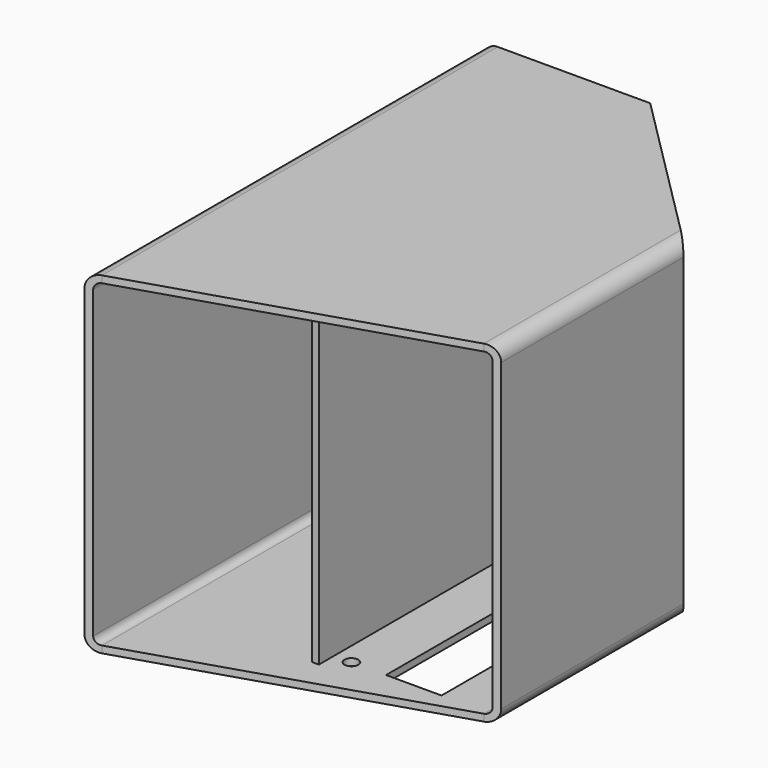
from build123d import *

# Parameters (mm, degrees)
F0_W     = 6.35
F0_H     = 292.1
F1_DEPTH = 457.2
F4_DEPTH = 304.801
F2_W     = 50.8
F2_H     = 190.5
F2_R     = 6.35
F5_DEPTH = 6.35
F6_W     = 31.75
F6_H     = 292.1
F7_DEPTH = 6.35


with BuildPart() as f1:
    # F0 (on Front) → F1 (new body)
    with BuildSketch(Plane.XZ):
        with BuildLine():
            Line((-139.7, -152.4), (139.7, -152.4))
            ThreePointArc((139.7, -152.4), (148.6802561211, -148.6802561211), (152.4, -139.7))
            Line((152.4, -139.7), (152.4, 139.7))
            ThreePointArc((152.4, 139.7), (148.6802561211, 148.6802561211), (139.7, 152.4))
            Line((139.7, 152.4), (-139.7, 152.4))
            ThreePointArc((-139.7, 152.4), (-148.6802561211, 148.6802561211), (-152.4, 139.7))
            Line((-152.4, 139.7), (-152.4, -139.7))
            ThreePointArc((-152.4, -139.7), (-148.6802561211, -148.6802561211), (-139.7, -152.4))
        make_face()
        with BuildLine():
            Line((0, 146.05), (139.7, 146.05))
            ThreePointArc((139.7, 146.05), (144.1901280605, 144.1901280605), (146.05, 139.7))
            Line((146.05, 139.7), (146.05, -139.7))
            ThreePointArc((146.05, -139.7), (144.1901280605, -144.1901280605), (139.7, -146.05))
            Line((139.7, -146.05), (0, -146.05))
            Line((0, -146.05), (-6.35, -146.05))
            Line((-6.35, -146.05), (-139.7, -146.05))
            ThreePointArc((-139.7, -146.05), (-144.1901280605, -144.1901280605), (-146.05, -139.7))
            Line((-146.05, -139.7), (-146.05, 139.7))
            ThreePointArc((-146.05, 139.7), (-144.1901280605, 144.1901280605), (-139.7, 146.05))
            Line((-139.7, 146.05), (-6.35, 146.05))
            Line((-6.35, 146.05), (0, 146.05))
        make_face(mode=Mode.SUBTRACT)
        with Locations((-3.175, 0)):
            Rectangle(F0_W, F0_H)
    extrude(amount=F1_DEPTH)

    # F3 (on face) → F4 (cut, through all)
    with BuildSketch(Plane(origin=(0, 0, -152.4), x_dir=(1, 0, 0), z_dir=(0, 0, -1))):
        Polygon((152.4, 143.4197438789), (152.4, 152.4), (139.7, 139.7), (139.7, 130.7197438789), align=None)
        Polygon((139.7, 130.7197438789), (139.7, 139.7), (0, 0), (8.9802561211, 0), align=None)
        Polygon((139.7, 0), (139.7, 130.7197438789), (8.9802561211, 0), align=None)
        Polygon((152.4, 0), (152.4, 143.4197438789), (139.7, 130.7197438789), (139.7, 0), align=None)
        Polygon((139.7, 365.1012237684), (139.7, 457.2), (-139.7, 457.2), (-139.7, 453.1957053812), align=None)
        Polygon((-139.7, 453.1957053812), (-139.7, 457.2), (-152.4, 457.2), align=None)
        Polygon((152.4, 361.0969291497), (152.4, 457.2), (139.7, 457.2), (139.7, 365.1012237684), align=None)
    extrude(amount=-F4_DEPTH, mode=Mode.SUBTRACT)

    # F2 (on face) → F5 (cut)
    with BuildSketch(Plane(origin=(0, 0, -152.4), x_dir=(1, 0, 0), z_dir=(0, 0, -1))):
        with Locations((73.025, 266.7)):
            Rectangle(F2_W, F2_H)
        with Locations((15.875, 171.45)):
            Circle(F2_R)
        with Locations((130.175, 171.45)):
            Circle(F2_R)
        with Locations((15.875, 361.95)):
            Circle(F2_R)
    extrude(amount=-F5_DEPTH, mode=Mode.SUBTRACT)

    # F6 (on face) → F7 (cut, through all)
    with BuildSketch(Plane(origin=(-6.35, 0, 0), x_dir=(0, -1, 0), z_dir=(-1, 0, 0))):
        with Locations((395.2756118842, 0)):
            Rectangle(F6_W, F6_H)
    extrude(amount=-F7_DEPTH, mode=Mode.SUBTRACT)


solid = f1.part
